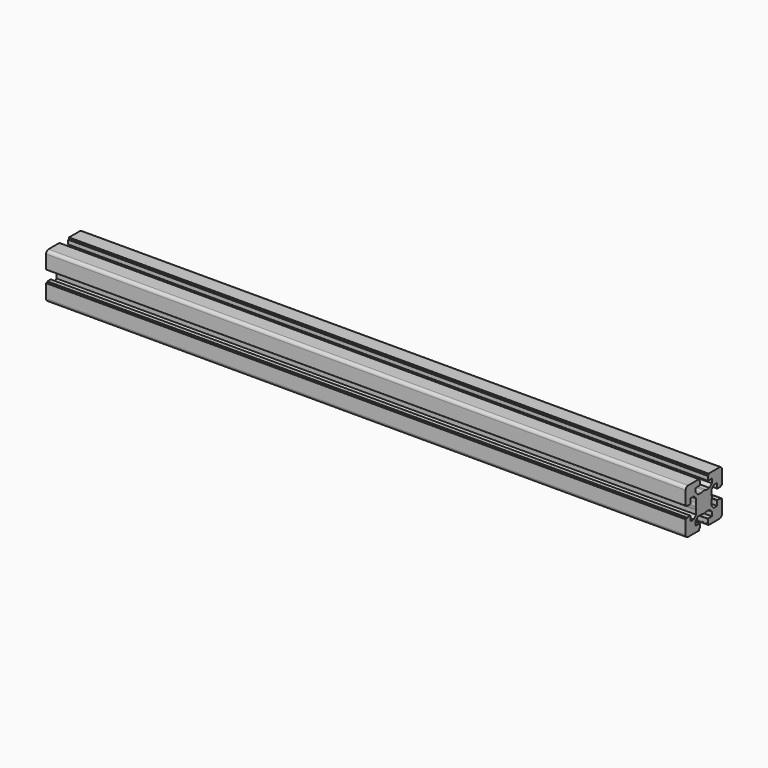
from build123d import *

# Parameters (mm, degrees)
F1_DEPTH = 635


with BuildPart() as f1:
    # F0 (on Right) → F1 (new body)
    with BuildSketch(Plane.YZ):
        with BuildLine():
            Line((-20.088481, -9.788837), (-20.088481, -10.288837))
            Line((-20.088481, -10.288837), (-21.28859, -10.288837))
            ThreePointArc((-21.28859, -10.288837), (-21.500722, -10.376705), (-21.58859, -10.588837))
            Line((-21.58859, -10.588837), (-21.58859, -23.988949))
            ThreePointArc((-21.58859, -23.988949), (-20.70991, -26.11027), (-18.58859, -26.988949))
            Line((-18.58859, -26.988949), (-5.188544, -26.988949))
            ThreePointArc((-5.188544, -26.988949), (-4.976411, -26.901081), (-4.888544, -26.688949))
            Line((-4.888544, -26.688949), (-4.888544, -25.488841))
            Line((-4.888544, -25.488841), (-4.388544, -25.488841))
            ThreePointArc((-4.388544, -25.488841), (-4.176411, -25.400973), (-4.088544, -25.188841))
            Line((-4.088544, -25.188841), (-4.088544, -21.288841))
            ThreePointArc((-4.088544, -21.288841), (-4.176411, -21.076709), (-4.388544, -20.988841))
            Line((-4.388544, -20.988841), (-9.138663, -20.988841))
            Line((-9.138663, -20.988841), (-9.138663, -16.881665))
            Line((-9.138663, -16.881665), (-6.245729, -13.988731))
            Line((-6.245729, -13.988731), (-2.211433, -13.988731))
            ThreePointArc((-2.211433, -13.988731), (-0.669869, -14.363044), (0.91149, -14.48887))
            Line((0.91149, -14.48887), (0.91149, -4.48887))
            Line((0.91149, -4.48887), (-9.08851, -4.48887))
            ThreePointArc((-9.08851, -4.48887), (-8.962684, -6.070229), (-8.588371, -7.611793))
            Line((-8.588371, -7.611793), (-8.588371, -11.646022))
            Line((-8.588371, -11.646022), (-11.481305, -14.538956))
            Line((-11.481305, -14.538956), (-15.588481, -14.538956))
            Line((-15.588481, -14.538956), (-15.588481, -9.788837))
            ThreePointArc((-15.588481, -9.788837), (-15.676349, -9.576705), (-15.888481, -9.488837))
            Line((-15.888481, -9.488837), (-19.788481, -9.488837))
            ThreePointArc((-19.788481, -9.488837), (-20.000613, -9.576705), (-20.088481, -9.788837))
        make_face()
        with BuildLine():
            ThreePointArc((-8.588371, -1.365947), (-8.962684, -2.907511), (-9.08851, -4.48887))
            Line((-9.08851, -4.48887), (0.91149, -4.48887))
            Line((0.91149, -4.48887), (0.91149, 5.51113))
            ThreePointArc((0.91149, 5.51113), (-0.669869, 5.385303), (-2.211433, 5.010991))
            Line((-2.211433, 5.010991), (-6.245729, 5.010991))
            Line((-6.245729, 5.010991), (-9.138663, 7.903925))
            Line((-9.138663, 7.903925), (-9.138663, 12.011101))
            Line((-9.138663, 12.011101), (-4.388544, 12.011101))
            ThreePointArc((-4.388544, 12.011101), (-4.176411, 12.098969), (-4.088544, 12.311101))
            Line((-4.088544, 12.311101), (-4.088544, 16.211101))
            ThreePointArc((-4.088544, 16.211101), (-4.176411, 16.423233), (-4.388544, 16.511101))
            Line((-4.388544, 16.511101), (-4.888544, 16.511101))
            Line((-4.888544, 16.511101), (-4.888544, 17.711209))
            ThreePointArc((-4.888544, 17.711209), (-4.976411, 17.923341), (-5.188544, 18.011209))
            Line((-5.188544, 18.011209), (-18.58859, 18.011209))
            ThreePointArc((-18.58859, 18.011209), (-20.70991, 17.13253), (-21.58859, 15.011209))
            Line((-21.58859, 15.011209), (-21.58859, 1.611097))
            ThreePointArc((-21.58859, 1.611097), (-21.500722, 1.398965), (-21.28859, 1.311097))
            Line((-21.28859, 1.311097), (-20.088481, 1.311097))
            Line((-20.088481, 1.311097), (-20.088481, 0.811097))
            ThreePointArc((-20.088481, 0.811097), (-20.000613, 0.598965), (-19.788481, 0.511097))
            Line((-19.788481, 0.511097), (-15.888481, 0.511097))
            ThreePointArc((-15.888481, 0.511097), (-15.676349, 0.598965), (-15.588481, 0.811097))
            Line((-15.588481, 0.811097), (-15.588481, 5.561216))
            Line((-15.588481, 5.561216), (-11.481305, 5.561216))
            Line((-11.481305, 5.561216), (-8.588371, 2.668282))
            Line((-8.588371, 2.668282), (-8.588371, -1.365947))
        make_face()
        with BuildLine():
            Line((0.91149, 5.51113), (0.91149, -4.48887))
            Line((0.91149, -4.48887), (10.91149, -4.48887))
            ThreePointArc((10.91149, -4.48887), (10.785663, -2.907511), (10.41135, -1.365947))
            Line((10.41135, -1.365947), (10.41135, 2.668282))
            Line((10.41135, 2.668282), (13.304285, 5.561216))
            Line((13.304285, 5.561216), (14.016842, 5.561216))
            Line((14.016842, 5.561216), (17.41146, 5.561216))
            Line((17.41146, 5.561216), (17.41146, 0.811097))
            ThreePointArc((17.41146, 0.811097), (17.499328, 0.598965), (17.71146, 0.511097))
            Line((17.71146, 0.511097), (21.61146, 0.511097))
            ThreePointArc((21.61146, 0.511097), (21.823593, 0.598965), (21.91146, 0.811097))
            Line((21.91146, 0.811097), (21.91146, 1.311097))
            Line((21.91146, 1.311097), (23.111569, 1.311097))
            ThreePointArc((23.111569, 1.311097), (23.323701, 1.398965), (23.411569, 1.611097))
            Line((23.411569, 1.611097), (23.411569, 15.011209))
            ThreePointArc((23.411569, 15.011209), (22.532889, 17.13253), (20.411569, 18.011209))
            Line((20.411569, 18.011209), (7.011523, 18.011209))
            ThreePointArc((7.011523, 18.011209), (6.799391, 17.923341), (6.711523, 17.711209))
            Line((6.711523, 17.711209), (6.711523, 16.511101))
            Line((6.711523, 16.511101), (6.211523, 16.511101))
            ThreePointArc((6.211523, 16.511101), (5.999391, 16.423233), (5.911523, 16.211101))
            Line((5.911523, 16.211101), (5.911523, 12.311101))
            ThreePointArc((5.911523, 12.311101), (5.999391, 12.098969), (6.211523, 12.011101))
            Line((6.211523, 12.011101), (10.961642, 12.011101))
            Line((10.961642, 12.011101), (10.961642, 7.903925))
            Line((10.961642, 7.903925), (8.068708, 5.010991))
            Line((8.068708, 5.010991), (4.034413, 5.010991))
            ThreePointArc((4.034413, 5.010991), (2.492849, 5.385303), (0.91149, 5.51113))
        make_face()
        with BuildLine():
            Line((10.91149, -4.48887), (0.91149, -4.48887))
            Line((0.91149, -4.48887), (0.91149, -14.48887))
            ThreePointArc((0.91149, -14.48887), (2.492849, -14.363044), (4.034413, -13.988731))
            Line((4.034413, -13.988731), (8.068708, -13.988731))
            Line((8.068708, -13.988731), (10.961642, -16.881665))
            Line((10.961642, -16.881665), (10.961642, -20.988841))
            Line((10.961642, -20.988841), (6.211523, -20.988841))
            ThreePointArc((6.211523, -20.988841), (5.999391, -21.076709), (5.911523, -21.288841))
            Line((5.911523, -21.288841), (5.911523, -25.188841))
            ThreePointArc((5.911523, -25.188841), (5.999391, -25.400973), (6.211523, -25.488841))
            Line((6.211523, -25.488841), (6.711523, -25.488841))
            Line((6.711523, -25.488841), (6.711523, -26.688949))
            ThreePointArc((6.711523, -26.688949), (6.799391, -26.901081), (7.011523, -26.988949))
            Line((7.011523, -26.988949), (20.411569, -26.988949))
            ThreePointArc((20.411569, -26.988949), (22.532889, -26.11027), (23.411569, -23.988949))
            Line((23.411569, -23.988949), (23.411569, -10.588837))
            ThreePointArc((23.411569, -10.588837), (23.323701, -10.376705), (23.111569, -10.288837))
            Line((23.111569, -10.288837), (21.91146, -10.288837))
            Line((21.91146, -10.288837), (21.91146, -9.788837))
            ThreePointArc((21.91146, -9.788837), (21.823593, -9.576705), (21.61146, -9.488837))
            Line((21.61146, -9.488837), (17.71146, -9.488837))
            ThreePointArc((17.71146, -9.488837), (17.499328, -9.576705), (17.41146, -9.788837))
            Line((17.41146, -9.788837), (17.41146, -14.538956))
            Line((17.41146, -14.538956), (13.304285, -14.538956))
            Line((13.304285, -14.538956), (10.41135, -11.646022))
            Line((10.41135, -11.646022), (10.41135, -7.611793))
            ThreePointArc((10.41135, -7.611793), (10.785663, -6.070229), (10.91149, -4.48887))
        make_face()
    extrude(amount=F1_DEPTH)


solid = f1.part
